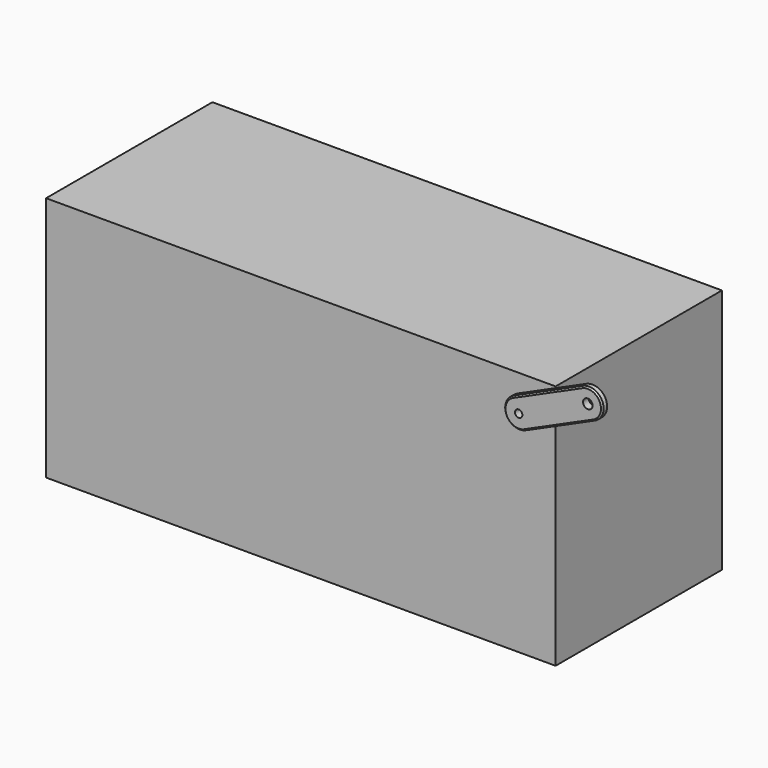
from build123d import *

# Parameters (mm, degrees)
F0_W     = 348
F0_H     = 168
F1_DEPTH = 142
F2_R     = 3.25
F2_R_2   = 2.5
F3_DEPTH = 5
F4_SIZE  = 1


with BuildPart() as f1:
    # F0 (on Front) → F1 (new body)
    with BuildSketch(Plane.XZ):
        Rectangle(F0_W, F0_H)
    extrude(amount=-F1_DEPTH)


with BuildPart() as f3:
    # F2 (on face) → F3 (new body)
    with BuildSketch(Plane.XZ):
        with BuildLine():
            Line((174, 61.355016), (204.098386, 74.87842))
            ThreePointArc((204.098386, 74.87842), (209.12158, 88.098386), (195.901614, 93.12158))
            Line((195.901614, 93.12158), (174, 83.281041))
            Line((174, 83.281041), (174, 61.355016))
        make_face()
        with Locations((200, 84)):
            Circle(F2_R, mode=Mode.SUBTRACT)
        with BuildLine():
            Line((156.885183, 53.665216), (174, 61.355016))
            Line((174, 61.355016), (174, 83.281041))
            Line((174, 83.281041), (148.68841, 71.908377))
            ThreePointArc((148.68841, 71.908377), (143.665216, 58.68841), (156.885183, 53.665216))
        make_face()
        with Locations((152.786797, 62.786797)):
            Circle(F2_R_2, mode=Mode.SUBTRACT)
    extrude(amount=F3_DEPTH)

    # F4
    f4_edges = [f3.edges().sort_by_distance(p)[0] for p in [
        (172.295012, -5, 82.514979),
        (172.295012, 0, 82.514979),
    ]]
    chamfer(f4_edges, length=F4_SIZE)


solid = Compound([f1.part, f3.part])
